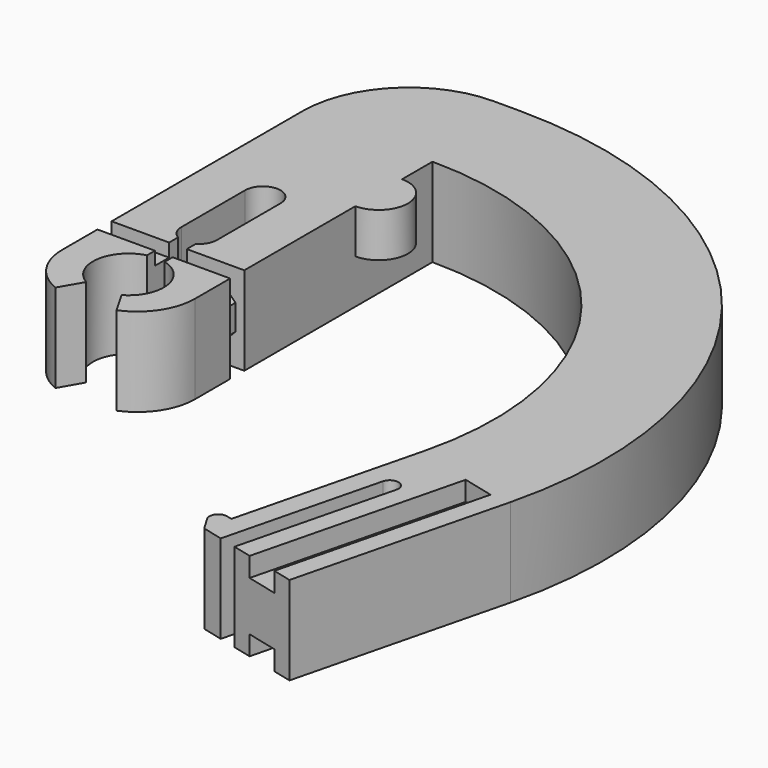
from build123d import *

# Parameters (mm, degrees)
SKETCH003_W          = 7.5
SKETCH003_H          = 26
PAD_DEPTH            = 2.5
SKETCH004_R          = 1.65
PAD001_DEPTH         = 2.5
FILLET_R             = 6
SKETCH005_R          = 2
POCKET_DEPTH         = 2.501
POCKET_DEPTH_BACK    = 2.501
SKETCH006_W          = 1
SKETCH006_H          = 5
POCKET001_DEPTH      = 2.501
POCKET001_DEPTH_BACK = 2.501
POCKET002_DEPTH      = 58.526798
POCKET002_DEPTH_BACK = 58.526798
SKETCH009_W          = 7.5
SKETCH009_H          = 5
POCKET003_DEPTH      = 0.5
PAD002_DEPTH         = 2.5
POCKET004_DEPTH      = 2.501
POCKET004_DEPTH_BACK = 2.501
PAD003_DEPTH         = 2.5
POCKET005_DEPTH      = 1.1


with BuildPart() as part:
    # Sketch003 → Pad (new body, symmetric)
    with BuildSketch(Plane.XY):
        with Locations((0, 13)):
            Rectangle(SKETCH003_W, SKETCH003_H)
    extrude(amount=PAD_DEPTH, both=True)

    # Sketch004 → Pad001 (join)
    with BuildSketch(Plane.XY):
        with Locations((3.75, 16)):
            Circle(SKETCH004_R)
    extrude(amount=PAD001_DEPTH)

    # Fillet
    fillet_edges = [part.edges().sort_by_distance(p)[0] for p in [
        (-3.75, 26, 0),
    ]]
    fillet(fillet_edges, radius=FILLET_R)

    # Sketch005 → Pocket (cut, two sides)
    with BuildSketch(Plane.XY) as pocket_sk:
        with Locations((0, 3)):
            Circle(SKETCH005_R)
        with BuildLine():
            ThreePointArc((1, 12.5), (0, 13.5), (-1, 12.5))
            Line((-1, 12.5), (-1, 8))
            ThreePointArc((-1, 8), (0, 7), (1, 8))
            Line((1, 8), (1, 12.5))
        make_face()
    extrude(amount=-POCKET_DEPTH, mode=Mode.SUBTRACT)
    extrude(pocket_sk.sketch, amount=POCKET_DEPTH_BACK, mode=Mode.SUBTRACT)

    # Sketch006 → Pocket001 (cut, two sides)
    with BuildSketch(Plane.XY) as pocket001_sk:
        Polygon((-1.732051, 0), (0, 3), (1.732051, 0), align=None)
        with Locations((0, 5.5)):
            Rectangle(SKETCH006_W, SKETCH006_H)
    extrude(amount=-POCKET001_DEPTH, mode=Mode.SUBTRACT)
    extrude(pocket001_sk.sketch, amount=POCKET001_DEPTH_BACK, mode=Mode.SUBTRACT)

    # Sketch007 → Pocket002 (cut, two sides)
    with BuildSketch(Plane.XY) as pocket002_sk:
        with BuildLine():
            ThreePointArc((1.732051, 0), (3.198765, 1.196569), (3.75, 3.007416))
            Line((3.75, 0), (3.75, 3.007416))
            Line((1.732051, 0), (3.75, 0))
        make_face()
    pocket002 = extrude(amount=-POCKET002_DEPTH, mode=Mode.SUBTRACT) + extrude(pocket002_sk.sketch, amount=POCKET002_DEPTH_BACK, mode=Mode.SUBTRACT)

    # Mirrored: Pocket002 across YZ
    add(pocket002.mirror(Plane.YZ), mode=Mode.SUBTRACT)

    # Sketch009 → Pocket003 (cut, symmetric)
    with BuildSketch(Plane.XZ.offset(-6)):
        Rectangle(SKETCH009_W, SKETCH009_H)
        Polygon((-2.224874, 1.75), (-3.25, 0.724874), (-3.25, -0.724874), (-2.224874, -1.75), (2.224874, -1.75), (3.25, -0.724874), (3.25, 0.724874), (2.224874, 1.75), align=None, mode=Mode.SUBTRACT)
    extrude(amount=POCKET003_DEPTH, both=True, mode=Mode.SUBTRACT)

    # Sketch010 → Pad002 (join, symmetric)
    with BuildSketch(Plane.XY):
        with BuildLine():
            ThreePointArc((26.768892, -3.462839), (22.44444, 16.882113), (3.75, 26))
            Line((3.75, 19.8), (3.75, 26))
            ThreePointArc((20.753059, -1.962923), (17.558773, 13.065011), (3.75, 19.8))
            Line((20.753059, -1.962923), (17.784166, -13.8705))
            Line((17.784166, -13.8705), (23.8, -15.370416))
            Line((23.8, -15.370416), (26.768892, -3.462839))
        make_face()
    extrude(amount=PAD002_DEPTH, both=True)

    # Sketch011 → Pocket004 (cut, two sides)
    with BuildSketch(Plane.XY) as pocket004_sk:
        with BuildLine():
            ThreePointArc((18.948521, -14.160807), (19.312708, -14.766915), (19.918817, -14.402728))
            Line((19.918817, -14.402728), (22.096114, -5.670067))
            ThreePointArc((22.096114, -5.670067), (21.731927, -5.063958), (21.125818, -5.428145))
            Line((21.125818, -5.428145), (18.948521, -14.160807))
        make_face()
    extrude(amount=-POCKET004_DEPTH, mode=Mode.SUBTRACT)
    extrude(pocket004_sk.sketch, amount=POCKET004_DEPTH_BACK, mode=Mode.SUBTRACT)

    # Sketch012 → Pad003 (join, symmetric)
    with BuildSketch(Plane.XY):
        with BuildLine():
            Line((17.784166, -13.8705), (18.148769, -12.408161))
            Line((18.148769, -12.408161), (17.85768, -12.335584))
            ThreePointArc((17.85768, -12.335584), (17.334791, -12.523321), (17.308135, -13.078251))
            Line((17.308135, -13.078251), (17.784166, -13.8705))
        make_face()
    extrude(amount=PAD003_DEPTH, both=True)

    # Sketch013 → Pocket005 (cut)
    with BuildSketch(Plane.XY.offset(2.5)):
        Polygon((20.986142, -14.668843), (23.889205, -3.025294), (25.635737, -3.460753), (22.732675, -15.104302), align=None)
    pocket005 = extrude(amount=-POCKET005_DEPTH, mode=Mode.SUBTRACT)

    # Mirrored001: Pocket005 across XY
    add(pocket005.mirror(Plane.XY), mode=Mode.SUBTRACT)


solid = part.part
